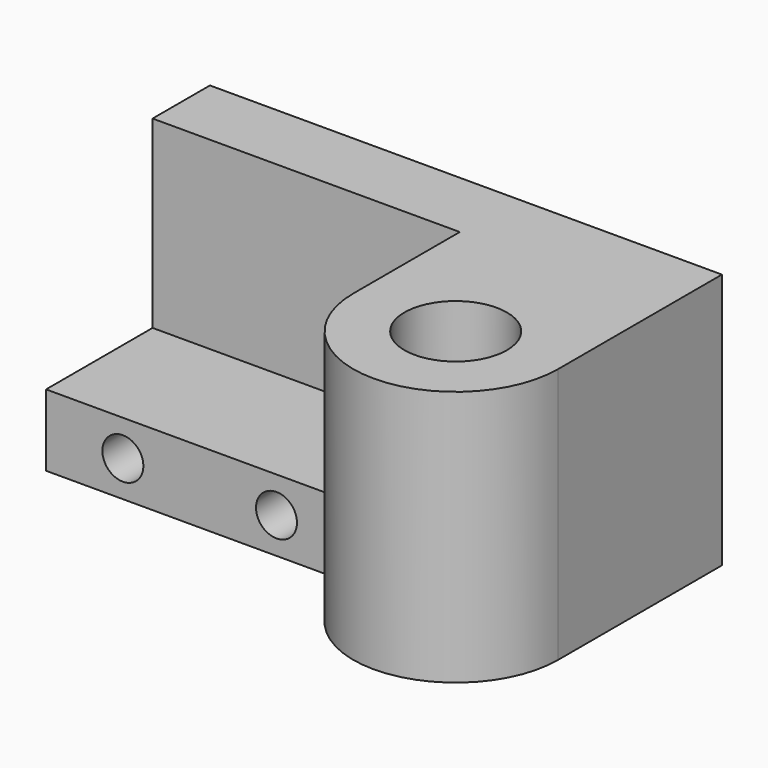
from build123d import *

# Parameters (mm, degrees)
F0_R     = 25
F1_DEPTH = 125
F0_W     = 150
F0_H     = 65
F2_DEPTH = 35
F3_R     = 10
F4_DEPTH = 100.001


with BuildPart() as f1:
    # F0 (on Top) → F1 (new body)
    with BuildSketch(Plane.XY):
        with BuildLine():
            Line((131.422007, 35), (-118.577993, 35))
            Line((-118.577993, 35), (-118.577993, 0))
            Line((-118.577993, 0), (31.422007, 0))
            Line((31.422007, 0), (31.422007, -65))
            ThreePointArc((31.422007, -65), (81.422007, -115), (131.422007, -65))
            Line((131.422007, -65), (131.422007, 35))
        make_face()
        with Locations((81.422007, -65)):
            Circle(F0_R, mode=Mode.SUBTRACT)
    extrude(amount=F1_DEPTH)

    # F0 (on Top) → F2 (join)
    with BuildSketch(Plane.XY):
        with Locations((-43.577993, -32.5)):
            Rectangle(F0_W, F0_H)
    extrude(amount=F2_DEPTH)

    # F3 (on face) → F4 (cut, through all)
    with BuildSketch(Plane.XZ.offset(65)):
        with Locations((-81.077993, 17.5)):
            Circle(F3_R)
        with Locations((-6.077993, 17.5)):
            Circle(F3_R)
    extrude(amount=-F4_DEPTH, mode=Mode.SUBTRACT)


solid = f1.part
